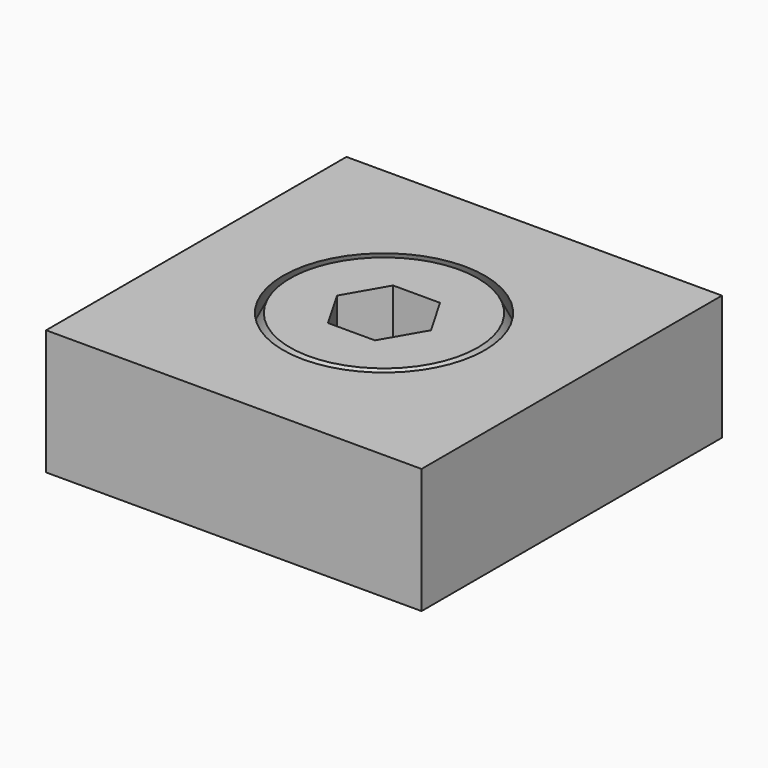
from build123d import *

# Parameters (mm, degrees)
F1_R      = 10
F2_R      = 7.5
F1_W      = 30
F1_H      = 30
F5_DEPTH  = 5
F6_OFFSET = 0.5
F8_DEPTH  = 12.5


with BuildPart() as f3:
    # F1 (on Top) → F3 section 0
    with BuildSketch(Plane.XY):
        Circle(F1_R)
    # F2 (on offset) → F3 section 1
    with BuildSketch(Plane.XY.offset(5)):
        Circle(F2_R)
    loft()

    # F4: F3 across plane


with BuildPart() as f3_1:
    add(f3.part)
    add(f3.part.mirror(Plane.XY))


with BuildPart() as f5:
    # F1 (on Top) → F5 (new body, symmetric)
    with BuildSketch(Plane.XY):
        Rectangle(F1_W, F1_H)
        Circle(F1_R, mode=Mode.SUBTRACT)
        Circle(F1_R)
    extrude(amount=F5_DEPTH, both=True)

    # F6: cut F3, made larger all round first
    f6_tool = offset(f3_1.part, amount=F6_OFFSET, kind=Kind.INTERSECTION, mode=Mode.PRIVATE)
    add(f6_tool, mode=Mode.SUBTRACT)


with BuildPart() as f3_2:
    add(f3_1.part)

    # F7 (on Top) → F8 (cut, symmetric)
    with BuildSketch(Plane.XY):
        Polygon((1.8763883749, 3.25), (-1.8763883749, 3.25), (-3.7527767497, 0), (-1.8763883749, -3.25), (1.8763883749, -3.25), (3.7527767497, 0), align=None)
    extrude(amount=F8_DEPTH, both=True, mode=Mode.SUBTRACT)


solid = Compound([f5.part, f3_2.part])
